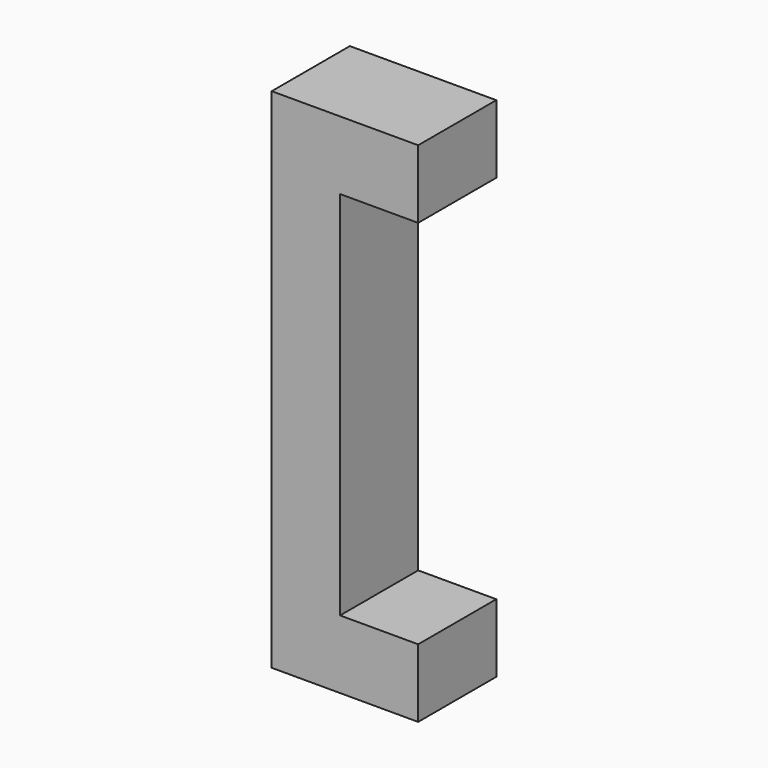
from build123d import *

# Parameters (mm, degrees)
F1_DEPTH      = 12.5
F1_DEPTH_BACK = 12.5
F2_R          = 6.5
F3_DEPTH      = 12


with BuildPart() as f1:
    # F0 (on Front) → F1 (new body, two sides)
    with BuildSketch(Plane.XZ) as f1_sk:
        Polygon((0, 65), (0, 0), (0, -65), (37.5, -65), (37.5, -47.5), (17.5, -47.5), (17.5, 0), (17.5, 47.5), (37.5, 47.5), (37.5, 65), align=None)
    extrude(amount=F1_DEPTH)
    extrude(f1_sk.sketch, amount=-F1_DEPTH_BACK)

    # F2 (on face) → F3 (cut)
    with BuildSketch(Plane(origin=(0, 0, -65), x_dir=(1, 0, 0), z_dir=(0, 0, -1))):
        with Locations((18.75, 0)):
            Circle(F2_R)
    extrude(amount=-F3_DEPTH, mode=Mode.SUBTRACT)


solid = f1.part
